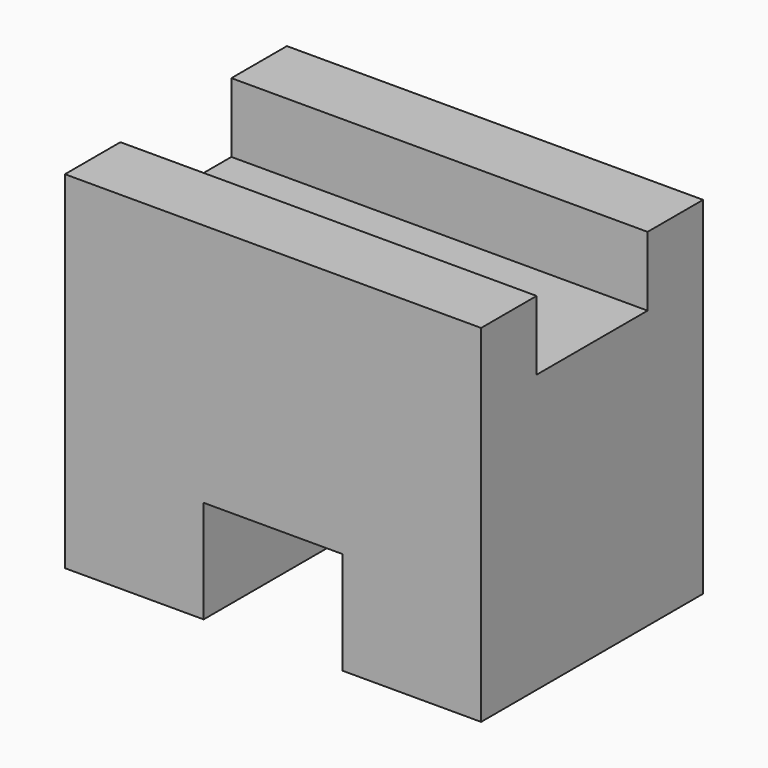
from build123d import *

# Parameters (mm, degrees)
F1_DEPTH = 25.4
F2_W     = 12.7
F2_H     = 6.35
F3_DEPTH = 38.1


with BuildPart() as f1:
    # F0 (on Front) → F1 (new body)
    with BuildSketch(Plane.XZ):
        Polygon((0, 31.75), (0, 0), (12.7, 0), (12.7, 9.4), (25.4, 9.4), (25.4, 0), (38.1, 0), (38.1, 31.75), align=None)
    extrude(amount=-F1_DEPTH)

    # F2 (on face) → F3 (cut)
    with BuildSketch(Plane.YZ.offset(38.1)):
        with Locations((12.7, 28.575)):
            Rectangle(F2_W, F2_H)
    extrude(amount=-F3_DEPTH, mode=Mode.SUBTRACT)


solid = f1.part
